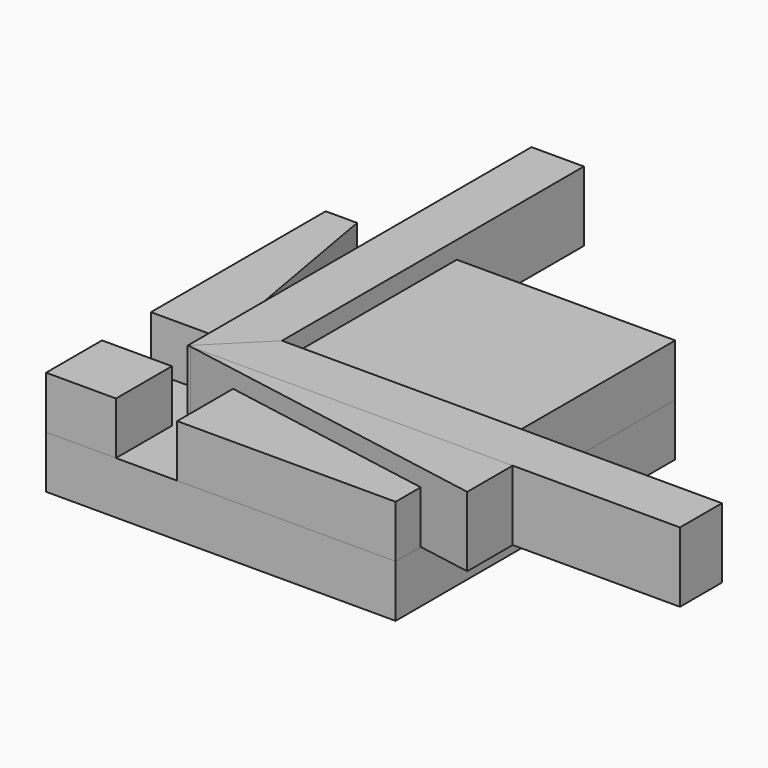
from build123d import *

# Parameters (mm, degrees)
F0_W     = 127
F0_H     = 127
F1_DEPTH = 19.05
F2_W     = 25.4
F2_H     = 25.4
F2_W_2   = 79.375
F2_H_2   = 79.375
F3_DEPTH = 19.05
F5_DEPTH = 25.4
F6_W     = 19.05
F6_H     = 57.72996
F7_DEPTH = 25.4
F6_W_2   = 80.461032
F6_H_2   = 19.05
F8_DEPTH = 25.4


with BuildPart() as f1:
    # F0 (on Top) → F1 (new body)
    with BuildSketch(Plane.XY):
        Rectangle(F0_W, F0_H)
    extrude(amount=F1_DEPTH)


with BuildPart() as f3:
    # F2 (on face) → F3 (new body)
    with BuildSketch(Plane.XY.offset(19.05)):
        Polygon((-63.5, 63.5), (-63.5, -15.875), (-38.1, -15.875), (-52.095954, 63.5), align=None)
        with Locations((-50.8, -50.8)):
            Rectangle(F2_W, F2_H)
        Polygon((-15.875, -38.1), (-15.875, -63.5), (63.5, -63.5), (63.5, -52.095954), align=None)
        with Locations((23.8125, 23.8125)):
            Rectangle(F2_W_2, F2_H_2)
    extrude(amount=F3_DEPTH)


with BuildPart() as f5:
    # F4 (on face) → F5 (new body)
    with BuildSketch(Plane.XY.offset(19.05)):
        Polygon((83.1773, -55.565593), (83.1773, -34.925), (-33.88132, -34.925), align=None)
    extrude(amount=F5_DEPTH)


with BuildPart() as f7:
    # F6 (on face) → F7 (new body)
    with BuildSketch(Plane.XY.offset(19.05)):
        Polygon((-34.925, 63.5), (-34.925, -34.925), (-15.875, -15.875), (-15.875, 63.5), align=None)
        with Locations((-25.4, 92.36498)):
            Rectangle(F6_W, F6_H)
    extrude(amount=F7_DEPTH)


with BuildPart() as f8:
    # F6 (on face) → F8 (new body)
    with BuildSketch(Plane.XY.offset(19.05)):
        Polygon((-15.875, -15.875), (-34.925, -34.925), (63.5, -34.925), (63.5, -15.875), align=None)
        with Locations((103.730516, -25.4)):
            Rectangle(F6_W_2, F6_H_2)
    extrude(amount=F8_DEPTH)


solid = Compound([f1.part, f3.part, f5.part, f7.part, f8.part])
